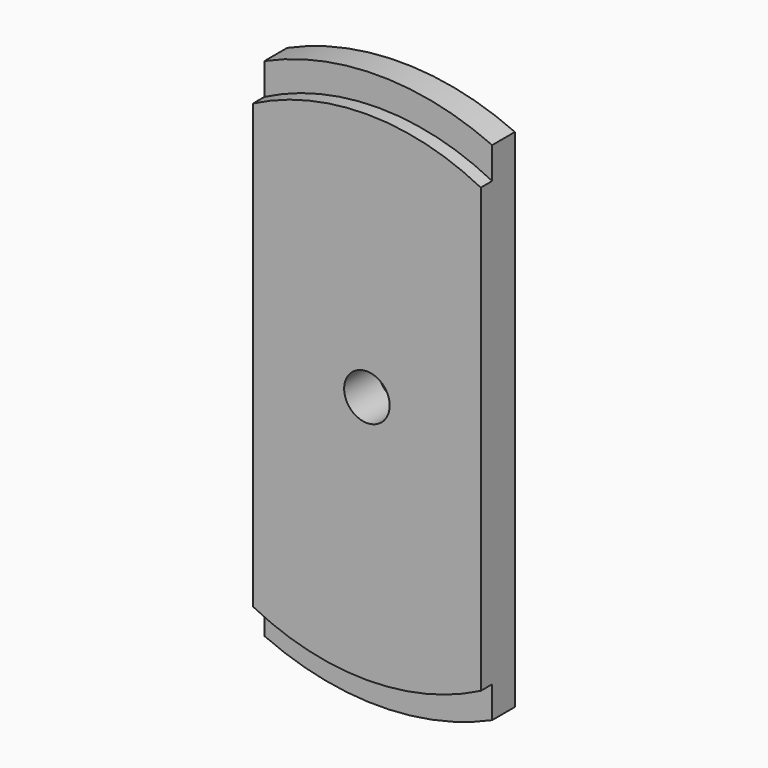
from build123d import *

# Parameters (mm, degrees)
F0_R     = 8
F1_DEPTH = 15
F2_DEPTH = 10


with BuildPart() as f1:
    # F0 (on Front) → F1 (new body)
    with BuildSketch(Plane.XZ):
        with BuildLine():
            Line((40, -77.8219120814), (40, 77.8219120814))
            ThreePointArc((40, 77.8219120814), (0, 87.5), (-40, 77.8219120814))
            Line((-40, 77.8219120814), (-40, -77.8219120814))
            ThreePointArc((-40, -77.8219120814), (0, -87.5), (40, -77.8219120814))
        make_face()
        Circle(F0_R, mode=Mode.SUBTRACT)
    extrude(amount=F1_DEPTH)

    # F0 (on Front) → F2 (join)
    with BuildSketch(Plane.XZ):
        with BuildLine():
            ThreePointArc((-40, 77.8219120814), (0, 87.5), (40, 77.8219120814))
            Line((40, 77.8219120814), (40, 88.9170962189))
            ThreePointArc((40, 88.9170962189), (0, 97.5), (-40, 88.9170962189))
            Line((-40, 88.9170962189), (-40, 77.8219120814))
        make_face()
        with BuildLine():
            Line((40, -88.9170962189), (40, -77.8219120814))
            ThreePointArc((40, -77.8219120814), (0, -87.5), (-40, -77.8219120814))
            Line((-40, -77.8219120814), (-40, -88.9170962189))
            ThreePointArc((-40, -88.9170962189), (0, -97.5), (40, -88.9170962189))
        make_face()
    extrude(amount=F2_DEPTH)


solid = f1.part
